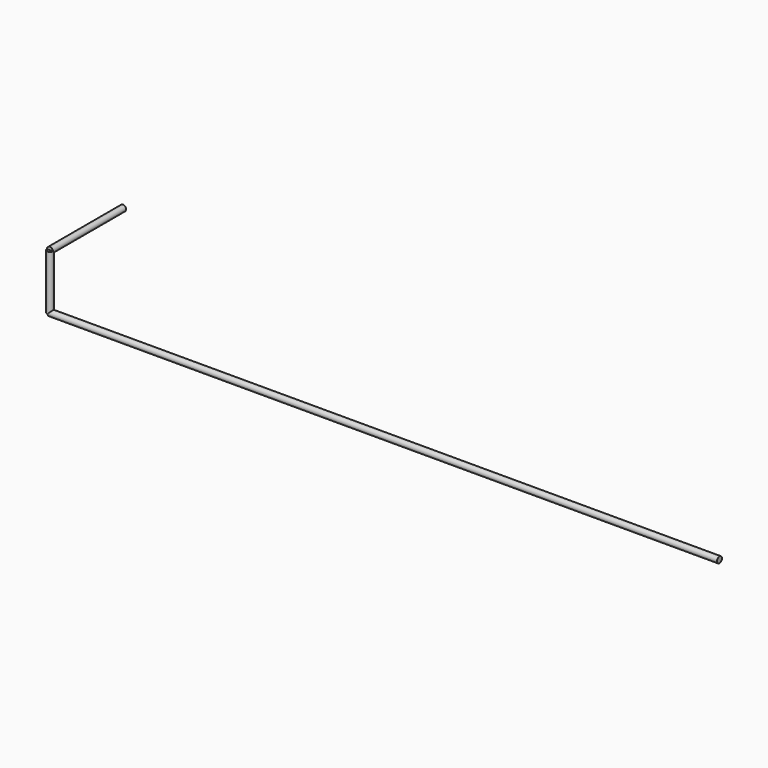
from build123d import *

# Parameters (mm, degrees)
F0_R     = 25.4
F1_DEPTH = 5588
F2_R     = 25.4
F3_DEPTH = 457.2
F5_R     = 25.4
F6_DEPTH = 762


with BuildPart() as f1:
    # F0 (on Right) → F1 (new body)
    with BuildSketch(Plane.YZ):
        Circle(F0_R)
    extrude(amount=F1_DEPTH)

    # F2 (on Top) → F3 (join)
    with BuildSketch(Plane.XY):
        Circle(F2_R)
    extrude(amount=F3_DEPTH)

    # F5 (on Front) → F6 (join)
    with BuildSketch(Plane.XZ):
        with Locations((0, 457.2)):
            Circle(F5_R)
    extrude(amount=-F6_DEPTH)


solid = f1.part
